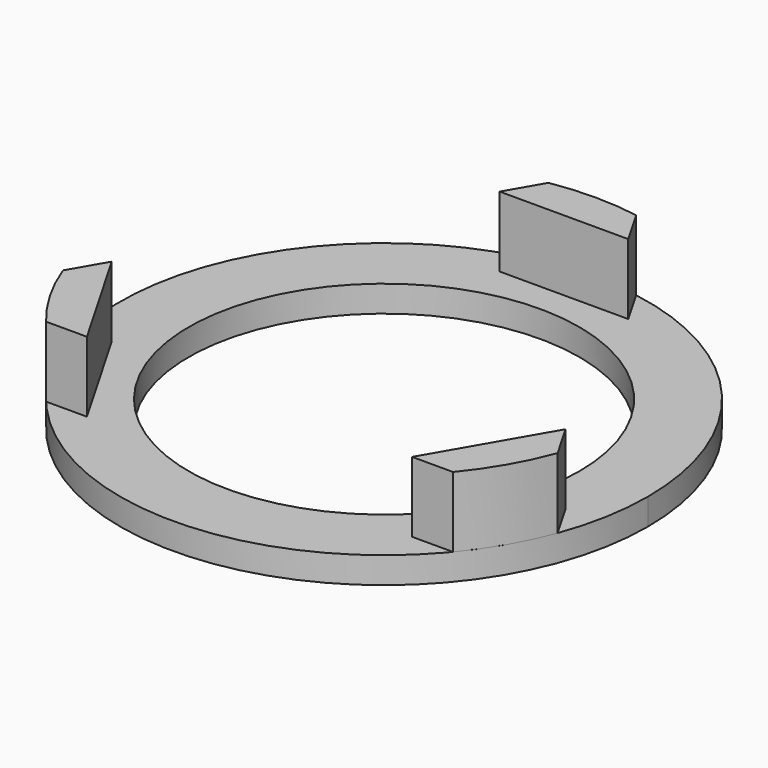
from build123d import *

# Parameters (mm, degrees)
F0_R     = 11.1
F1_DEPTH = 1.5
F3_DEPTH = 4
F4_COUNT = 3


with BuildPart() as f1:
    # F0 (on Top) → F1 (new body)
    with BuildSketch(Plane.XY):
        with BuildLine():
            ThreePointArc((-2.492691, 14.791433), (-9.685289, -11.454047), (15, 0))
            ThreePointArc((15, 0), (11.454047, 9.685289), (2.492691, 14.791433))
            Line((2.492691, 14.791433), (3.653589, 12.780699))
            Line((3.653589, 12.780699), (0, 12.780699))
            Line((0, 12.780699), (-3.653589, 12.780699))
            Line((-3.653589, 12.780699), (-2.492691, 14.791433))
        make_face()
        Circle(F0_R, mode=Mode.SUBTRACT)
        with BuildLine():
            Line((3.653589, 12.780699), (2.492691, 14.791433))
            ThreePointArc((2.492691, 14.791433), (0, 15), (-2.492691, 14.791433))
            Line((-2.492691, 14.791433), (-3.653589, 12.780699))
            Line((-3.653589, 12.780699), (0, 12.780699))
            Line((0, 12.780699), (3.653589, 12.780699))
        make_face()
    extrude(amount=F1_DEPTH)


with BuildPart() as f3:
    # F2 (on face) → F3 (new body)
    with BuildSketch(Plane.XY.offset(1.5)):
        with BuildLine():
            Line((9.241615, -9.554451), (11.563411, -9.554451))
            ThreePointArc((11.563411, -9.554451), (12.990381, -7.5), (14.056102, -5.236982))
            Line((14.056102, -5.236982), (12.895205, -3.226248))
            Line((12.895205, -3.226248), (9.241615, -9.554451))
        make_face()
    extrude(amount=F3_DEPTH)


with BuildPart() as f4_1:
    # F4: instance of F3
    add(f3.part.rotate(Axis((0, 0, 0), (0, 0, 1)), 1 * 360 / F4_COUNT))


with BuildPart() as f4_2:
    # F4: instance of F3
    add(f3.part.rotate(Axis((0, 0, 0), (0, 0, 1)), 2 * 360 / F4_COUNT))


solid = Compound([f1.part, f3.part, f4_1.part, f4_2.part])
